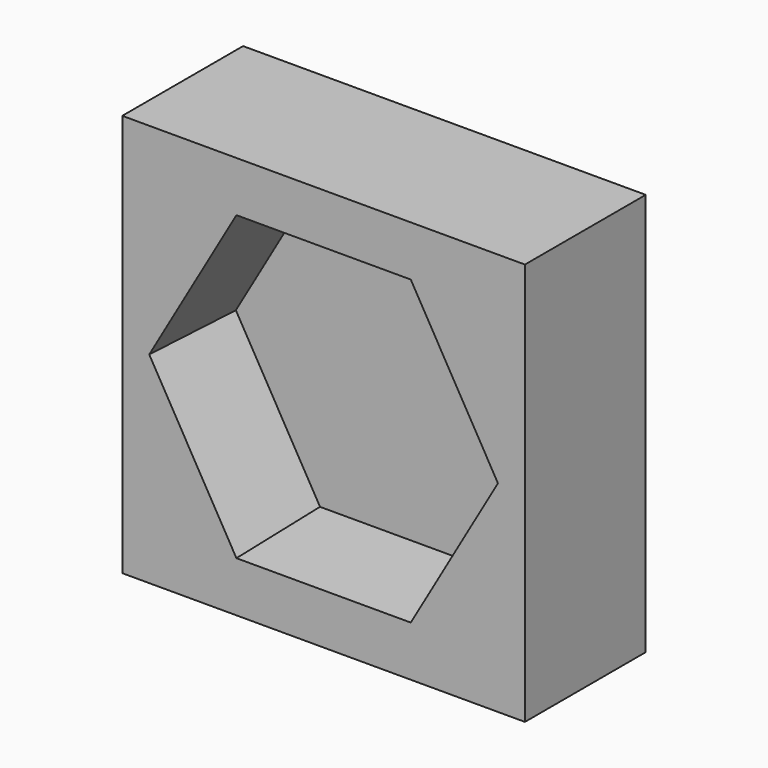
from build123d import *

# Parameters (mm, degrees)
F0_W     = 101.6
F0_H     = 101.6
F1_DEPTH = 38.1
F3_DEPTH = 25.4
F3_TAPER = 3


with BuildPart() as f1:
    # F0 (on Front) → F1 (new body)
    with BuildSketch(Plane.XZ):
        with Locations((50.8, 50.8)):
            Rectangle(F0_W, F0_H)
    extrude(amount=F1_DEPTH)

    # F2 (on face) → F3 (cut)
    with BuildSketch(Plane.XZ.offset(38.1)):
        Polygon((28.8029547439, 12.7), (72.7970452561, 12.7), (94.7940905122, 50.8), (72.7970452561, 88.9), (28.8029547439, 88.9), (6.8059094878, 50.8), align=None)
    extrude(amount=-F3_DEPTH, taper=F3_TAPER, mode=Mode.SUBTRACT)


solid = f1.part
